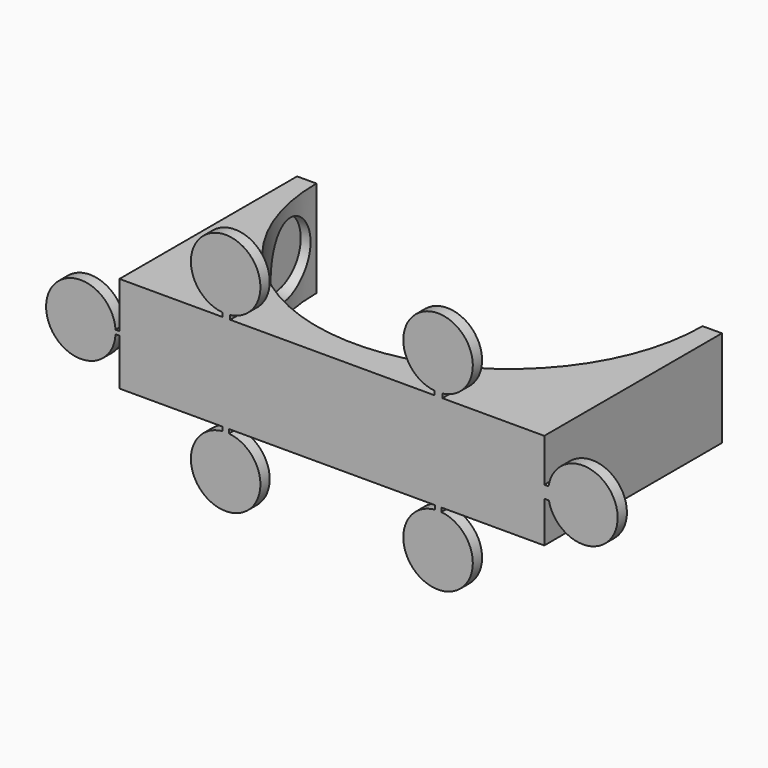
from build123d import *

# Parameters (mm, degrees)
F1_DEPTH = 12.5
F3_DEPTH = 25
F4_R     = 9.05
F5_DEPTH = 55
F6_R     = 9.05
F7_DEPTH = 52.5
F9_DEPTH = 3


with BuildPart() as f1:
    # F0 (on Top) → F1 (new body, symmetric)
    with BuildSketch(Plane.XY):
        with BuildLine():
            ThreePointArc((50, 0), (0, -50), (-50, 0))
            Line((-50, 0), (-55, 0))
            ThreePointArc((-55, 0), (0, -55), (55, 0))
            Line((55, 0), (50, 0))
        make_face()
    extrude(amount=F1_DEPTH, both=True)

    # F2 (on face) → F3 (join)
    with BuildSketch(Plane.XY.offset(12.5)):
        with BuildLine():
            ThreePointArc((55, 0), (0, -55), (-55, 0))
            Line((-55, 0), (-55, -57.5))
            Line((-55, -57.5), (0, -57.5))
            Line((0, -57.5), (55, -57.5))
            Line((55, -57.5), (55, 0))
        make_face()
    extrude(amount=-F3_DEPTH)

    # F4 (on Front) → F5 (cut)
    with BuildSketch(Plane.XZ):
        Circle(F4_R)
    extrude(amount=F5_DEPTH, mode=Mode.SUBTRACT)

    # F6 (on Right) → F7 (cut, symmetric)
    with BuildSketch(Plane.YZ):
        with Locations((-11, 0)):
            Circle(F6_R)
    extrude(amount=F7_DEPTH, both=True, mode=Mode.SUBTRACT)

    # F8 (on face) → F9 (join)
    with BuildSketch(Plane.XZ.offset(57.5)):
        with BuildLine():
            Line((55, -1.825145), (56.187007, -1.825145))
            ThreePointArc((56.187007, -1.825145), (73.996764, 0.241309), (56.101841, 1.350101))
            Line((56.101841, 1.350101), (55, 1.350101))
            Line((55, 1.350101), (55, -1.825145))
        make_face()
        with BuildLine():
            Line((-55, 0.589209), (-56.019308, 0.589209))
            ThreePointArc((-56.019308, 0.589209), (-73.999691, -0.074534), (-56.010781, -0.440385))
            Line((-56.010781, -0.440385), (-55, -0.440385))
            Line((-55, -0.440385), (-55, 0.589209))
        make_face()
        with BuildLine():
            Line((26.665892, -12.5), (26.665892, -13.538735))
            ThreePointArc((26.665892, -13.538735), (27.491135, -31.499996), (28.35176, -13.540396))
            Line((28.35176, -13.540396), (28.35176, -12.5))
            Line((28.35176, -12.5), (26.665892, -12.5))
        make_face()
        with BuildLine():
            Line((-28.294771, -12.5), (-28.294771, -13.535161))
            ThreePointArc((-28.294771, -13.535161), (-27.521055, -31.499975), (-26.663293, -13.538978))
            Line((-26.663293, -13.538978), (-26.663293, -12.5))
            Line((-26.663293, -12.5), (-28.294771, -12.5))
        make_face()
        with BuildLine():
            Line((-26.327094, 12.5), (-26.327094, 13.576756))
            ThreePointArc((-26.327094, 13.576756), (-27.667739, 31.498437), (-28.339533, 13.539242))
            Line((-28.339533, 13.539242), (-28.339533, 12.5))
            Line((-28.339533, 12.5), (-26.327094, 12.5))
        make_face()
        with BuildLine():
            Line((28.639116, 12.5), (28.639116, 13.572379))
            ThreePointArc((28.639116, 13.572379), (27.368028, 31.499032), (26.623167, 13.542815))
            Line((26.623167, 13.542815), (26.623167, 12.5))
            Line((26.623167, 12.5), (28.639116, 12.5))
        make_face()
    extrude(amount=-F9_DEPTH)


solid = f1.part
